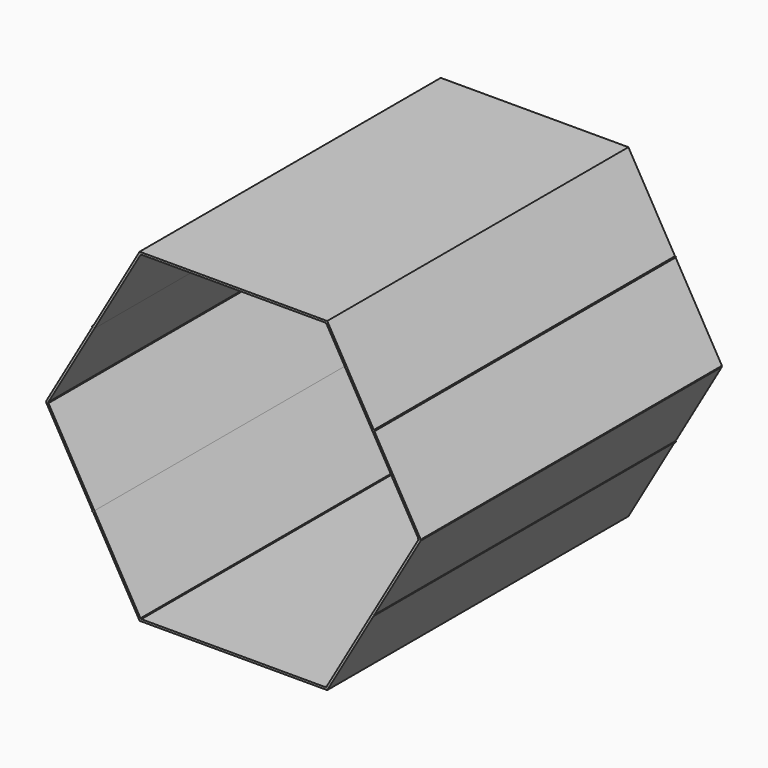
from build123d import *

# Parameters (mm, degrees)
F1_DEPTH = 2032
F2_DEPTH = 2032
F3_DEPTH = 2032


with BuildPart() as f1:
    # F0 (on Front) → F1 (new body)
    with BuildSketch(Plane.XZ):
        with BuildLine():
            Line((496.825, -866.0254037844), (-496.825, -866.0254037844))
            ThreePointArc((-496.825, -866.0254037844), (-498.4125, -868.7750344415), (-501.5875, -868.7750344415))
            Line((-501.5875, -868.7750344415), (-506.4158048664, -877.1379037844))
            Line((-506.4158048664, -877.1379037844), (506.4158048664, -877.1379037844))
            Line((506.4158048664, -877.1379037844), (501.5875, -868.7750344415))
            ThreePointArc((501.5875, -868.7750344415), (498.4125, -868.7750344415), (496.825, -866.0254037844))
        make_face()
    extrude(amount=F1_DEPTH)


with BuildPart() as f1b:
    # F0 (on Front) → F1, piece 2 (new body)
    with BuildSketch(Plane.XZ):
        with BuildLine():
            Line((998.4125, -2.749630657), (750, -433.0127018922))
            Line((750, -433.0127018922), (756.8740766425, -436.9814518922))
            ThreePointArc((756.8740766425, -436.9814518922), (758.8019568314, -435.5021373938), (761.2112072996, -435.8193212352))
            Line((761.2112072996, -435.8193212352), (1011.2441097327, -2.749630657))
            ThreePointArc((1011.2441097327, -2.749630657), (1010.0819790757, -1.5875), (1009.6566097327, 0))
            Line((1009.6566097327, 0), (1003.175, 0))
            ThreePointArc((1003.175, 0), (1001.5875, -2.749630657), (998.4125, -2.749630657))
        make_face()
    extrude(amount=F1_DEPTH)


with BuildPart() as f1c:
    # F0 (on Front) → F1, piece 3 (new body)
    with BuildSketch(Plane.XZ):
        with BuildLine():
            Line((501.5875, 863.2757731274), (750, 433.0127018922))
            Line((750, 433.0127018922), (756.8740766425, 436.9814518922))
            ThreePointArc((756.8740766425, 436.9814518922), (756.5568928011, 439.3907023604), (758.0362072996, 441.3185825492))
            Line((758.0362072996, 441.3185825492), (506.4158048664, 877.1379037844))
            Line((506.4158048664, 877.1379037844), (501.5875, 868.7750344415))
            ThreePointArc((501.5875, 868.7750344415), (502.749630657, 867.6129037844), (503.175, 866.0254037844))
            ThreePointArc((503.175, 866.0254037844), (502.749630657, 864.4379037844), (501.5875, 863.2757731274))
        make_face()
    extrude(amount=F1_DEPTH)


with BuildPart() as f1d:
    # F0 (on Front) → F1, piece 4 (new body)
    with BuildSketch(Plane.XZ):
        with BuildLine():
            Line((-756.8740766425, -436.9814518922), (-750, -433.0127018922))
            Line((-750, -433.0127018922), (-998.4125, -2.749630657))
            ThreePointArc((-998.4125, -2.749630657), (-1001.5875, -2.749630657), (-1003.175, 0))
            Line((-1003.175, 0), (-1009.6566097327, 0))
            ThreePointArc((-1009.6566097327, 0), (-1010.0819790757, -1.5875), (-1011.2441097327, -2.749630657))
            Line((-1011.2441097327, -2.749630657), (-761.2112072996, -435.8193212352))
            ThreePointArc((-761.2112072996, -435.8193212352), (-758.8019568314, -435.5021373938), (-756.8740766425, -436.9814518922))
        make_face()
    extrude(amount=F1_DEPTH)


with BuildPart() as f1e:
    # F0 (on Front) → F1, piece 5 (new body)
    with BuildSketch(Plane.XZ):
        with BuildLine():
            Line((-756.8740766425, 436.9814518922), (-750, 433.0127018922))
            Line((-750, 433.0127018922), (-501.5875, 863.2757731274))
            ThreePointArc((-501.5875, 863.2757731274), (-503.175, 866.0254037844), (-501.5875, 868.7750344415))
            Line((-501.5875, 868.7750344415), (-506.4158048664, 877.1379037844))
            Line((-506.4158048664, 877.1379037844), (-758.0362072996, 441.3185825492))
            ThreePointArc((-758.0362072996, 441.3185825492), (-756.8740766425, 440.1564518922), (-756.4487072996, 438.5689518922))
            ThreePointArc((-756.4487072996, 438.5689518922), (-756.5568928011, 437.747201424), (-756.8740766425, 436.9814518922))
        make_face()
    extrude(amount=F1_DEPTH)


with BuildPart() as f2:
    # F0 (on Front) → F2 (new body)
    with BuildSketch(Plane.XZ):
        with BuildLine():
            Line((750, 433.0127018922), (998.4125, 2.749630657))
            ThreePointArc((998.4125, 2.749630657), (1001.5875, 2.749630657), (1003.175, 0))
            Line((1003.175, 0), (1009.6566097327, 0))
            ThreePointArc((1009.6566097327, 0), (1010.0819790757, 1.5875), (1011.2441097327, 2.749630657))
            Line((1011.2441097327, 2.749630657), (761.2112072996, 435.8193212352))
            ThreePointArc((761.2112072996, 435.8193212352), (758.8019568314, 435.5021373938), (756.8740766425, 436.9814518922))
            Line((756.8740766425, 436.9814518922), (750, 433.0127018922))
        make_face()
    extrude(amount=F2_DEPTH)


with BuildPart() as f2b:
    # F0 (on Front) → F2, piece 2 (new body)
    with BuildSketch(Plane.XZ):
        with BuildLine():
            Line((-496.825, 866.0254037844), (496.825, 866.0254037844))
            ThreePointArc((496.825, 866.0254037844), (498.4125, 868.7750344415), (501.5875, 868.7750344415))
            Line((501.5875, 868.7750344415), (506.4158048664, 877.1379037844))
            Line((506.4158048664, 877.1379037844), (-506.4158048664, 877.1379037844))
            Line((-506.4158048664, 877.1379037844), (-501.5875, 868.7750344415))
            ThreePointArc((-501.5875, 868.7750344415), (-498.4125, 868.7750344415), (-496.825, 866.0254037844))
        make_face()
    extrude(amount=F2_DEPTH)


with BuildPart() as f2c:
    # F0 (on Front) → F2, piece 3 (new body)
    with BuildSketch(Plane.XZ):
        with BuildLine():
            Line((-1009.6566097327, 0), (-1003.175, 0))
            ThreePointArc((-1003.175, 0), (-1001.5875, 2.749630657), (-998.4125, 2.749630657))
            Line((-998.4125, 2.749630657), (-750, 433.0127018922))
            Line((-750, 433.0127018922), (-756.8740766425, 436.9814518922))
            ThreePointArc((-756.8740766425, 436.9814518922), (-758.8019568314, 435.5021373938), (-761.2112072996, 435.8193212352))
            Line((-761.2112072996, 435.8193212352), (-1011.2441097327, 2.749630657))
            ThreePointArc((-1011.2441097327, 2.749630657), (-1010.0819790757, 1.5875), (-1009.6566097327, 0))
        make_face()
    extrude(amount=F2_DEPTH)


with BuildPart() as f2d:
    # F0 (on Front) → F2, piece 4 (new body)
    with BuildSketch(Plane.XZ):
        with BuildLine():
            ThreePointArc((-501.5875, -868.7750344415), (-503.175, -866.0254037844), (-501.5875, -863.2757731274))
            Line((-501.5875, -863.2757731274), (-750, -433.0127018922))
            Line((-750, -433.0127018922), (-756.8740766425, -436.9814518922))
            ThreePointArc((-756.8740766425, -436.9814518922), (-756.5568928011, -437.747201424), (-756.4487072996, -438.5689518922))
            ThreePointArc((-756.4487072996, -438.5689518922), (-756.8740766425, -440.1564518922), (-758.0362072996, -441.3185825492))
            Line((-758.0362072996, -441.3185825492), (-506.4158048664, -877.1379037844))
            Line((-506.4158048664, -877.1379037844), (-501.5875, -868.7750344415))
        make_face()
    extrude(amount=F2_DEPTH)


with BuildPart() as f2e:
    # F0 (on Front) → F2, piece 5 (new body)
    with BuildSketch(Plane.XZ):
        with BuildLine():
            Line((750, -433.0127018922), (501.5875, -863.2757731274))
            ThreePointArc((501.5875, -863.2757731274), (502.749630657, -864.4379037844), (503.175, -866.0254037844))
            ThreePointArc((503.175, -866.0254037844), (502.749630657, -867.6129037844), (501.5875, -868.7750344415))
            Line((501.5875, -868.7750344415), (506.4158048664, -877.1379037844))
            Line((506.4158048664, -877.1379037844), (758.0362072996, -441.3185825492))
            ThreePointArc((758.0362072996, -441.3185825492), (756.5568928011, -439.3907023604), (756.8740766425, -436.9814518922))
            Line((756.8740766425, -436.9814518922), (750, -433.0127018922))
        make_face()
    extrude(amount=F2_DEPTH)


with BuildPart() as f3:
    # F0 (on Front) → F3 (new body)
    with BuildSketch(Plane.XZ):
        with BuildLine():
            ThreePointArc((-761.2112072996, -435.8193212352), (-762.3733379566, -440.1564518922), (-758.0362072996, -441.3185825492))
            Line((-758.0362072996, -441.3185825492), (-759.6237072996, -438.5689518922))
            Line((-759.6237072996, -438.5689518922), (-761.2112072996, -435.8193212352))
        make_face()
        with BuildLine():
            Line((-759.6237072996, -438.5689518922), (-756.8740766425, -436.9814518922))
            ThreePointArc((-756.8740766425, -436.9814518922), (-758.8019568314, -435.5021373938), (-761.2112072996, -435.8193212352))
            Line((-761.2112072996, -435.8193212352), (-759.6237072996, -438.5689518922))
        make_face()
        with BuildLine():
            ThreePointArc((-756.4487072996, -438.5689518922), (-756.5568928011, -437.747201424), (-756.8740766425, -436.9814518922))
            Line((-756.8740766425, -436.9814518922), (-759.6237072996, -438.5689518922))
            Line((-759.6237072996, -438.5689518922), (-758.0362072996, -441.3185825492))
            ThreePointArc((-758.0362072996, -441.3185825492), (-756.8740766425, -440.1564518922), (-756.4487072996, -438.5689518922))
        make_face()
    extrude(amount=F3_DEPTH)


with BuildPart() as f3b:
    # F0 (on Front) → F3, piece 2 (new body)
    with BuildSketch(Plane.XZ):
        with BuildLine():
            Line((-500, -866.0254037844), (-496.825, -866.0254037844))
            ThreePointArc((-496.825, -866.0254037844), (-498.4125, -863.2757731274), (-501.5875, -863.2757731274))
            Line((-501.5875, -863.2757731274), (-500, -866.0254037844))
        make_face()
        with BuildLine():
            ThreePointArc((-501.5875, -868.7750344415), (-498.4125, -868.7750344415), (-496.825, -866.0254037844))
            Line((-496.825, -866.0254037844), (-500, -866.0254037844))
            Line((-500, -866.0254037844), (-501.5875, -868.7750344415))
        make_face()
        with BuildLine():
            Line((-501.5875, -868.7750344415), (-500, -866.0254037844))
            Line((-500, -866.0254037844), (-501.5875, -863.2757731274))
            ThreePointArc((-501.5875, -863.2757731274), (-503.175, -866.0254037844), (-501.5875, -868.7750344415))
        make_face()
    extrude(amount=F3_DEPTH)


with BuildPart() as f3c:
    # F0 (on Front) → F3, piece 3 (new body)
    with BuildSketch(Plane.XZ):
        with BuildLine():
            Line((501.5875, -863.2757731274), (500, -866.0254037844))
            Line((500, -866.0254037844), (501.5875, -868.7750344415))
            ThreePointArc((501.5875, -868.7750344415), (502.749630657, -867.6129037844), (503.175, -866.0254037844))
            ThreePointArc((503.175, -866.0254037844), (502.749630657, -864.4379037844), (501.5875, -863.2757731274))
        make_face()
        with BuildLine():
            ThreePointArc((501.5875, -863.2757731274), (498.4125, -863.2757731274), (496.825, -866.0254037844))
            Line((496.825, -866.0254037844), (500, -866.0254037844))
            Line((500, -866.0254037844), (501.5875, -863.2757731274))
        make_face()
        with BuildLine():
            Line((500, -866.0254037844), (496.825, -866.0254037844))
            ThreePointArc((496.825, -866.0254037844), (498.4125, -868.7750344415), (501.5875, -868.7750344415))
            Line((501.5875, -868.7750344415), (500, -866.0254037844))
        make_face()
    extrude(amount=F3_DEPTH)


with BuildPart() as f3d:
    # F0 (on Front) → F3, piece 4 (new body)
    with BuildSketch(Plane.XZ):
        with BuildLine():
            ThreePointArc((761.2112072996, -435.8193212352), (758.8019568314, -435.5021373938), (756.8740766425, -436.9814518922))
            Line((756.8740766425, -436.9814518922), (759.6237072996, -438.5689518922))
            Line((759.6237072996, -438.5689518922), (761.2112072996, -435.8193212352))
        make_face()
        with BuildLine():
            Line((759.6237072996, -438.5689518922), (756.8740766425, -436.9814518922))
            ThreePointArc((756.8740766425, -436.9814518922), (756.5568928011, -439.3907023604), (758.0362072996, -441.3185825492))
            Line((758.0362072996, -441.3185825492), (759.6237072996, -438.5689518922))
        make_face()
        with BuildLine():
            Line((759.6237072996, -438.5689518922), (758.0362072996, -441.3185825492))
            ThreePointArc((758.0362072996, -441.3185825492), (761.2112072996, -441.3185825492), (762.7987072996, -438.5689518922))
            ThreePointArc((762.7987072996, -438.5689518922), (762.3733379566, -436.9814518922), (761.2112072996, -435.8193212352))
            Line((761.2112072996, -435.8193212352), (759.6237072996, -438.5689518922))
        make_face()
    extrude(amount=F3_DEPTH)


with BuildPart() as f3e:
    # F0 (on Front) → F3, piece 5 (new body)
    with BuildSketch(Plane.XZ):
        with BuildLine():
            Line((998.4125, 2.749630657), (1000, 0))
            Line((1000, 0), (1003.175, 0))
            ThreePointArc((1003.175, 0), (1001.5875, 2.749630657), (998.4125, 2.749630657))
        make_face()
        with BuildLine():
            Line((1000, 0), (998.4125, -2.749630657))
            ThreePointArc((998.4125, -2.749630657), (1001.5875, -2.749630657), (1003.175, 0))
            Line((1003.175, 0), (1000, 0))
        make_face()
        with BuildLine():
            ThreePointArc((998.4125, 2.749630657), (996.825, 0), (998.4125, -2.749630657))
            Line((998.4125, -2.749630657), (1000, 0))
            Line((1000, 0), (998.4125, 2.749630657))
        make_face()
    extrude(amount=F3_DEPTH)


with BuildPart() as f3f:
    # F0 (on Front) → F3, piece 6 (new body)
    with BuildSketch(Plane.XZ):
        with BuildLine():
            Line((758.0362072996, 441.3185825492), (759.6237072996, 438.5689518922))
            Line((759.6237072996, 438.5689518922), (761.2112072996, 435.8193212352))
            ThreePointArc((761.2112072996, 435.8193212352), (762.3733379566, 436.9814518922), (762.7987072996, 438.5689518922))
            ThreePointArc((762.7987072996, 438.5689518922), (761.2112072996, 441.3185825492), (758.0362072996, 441.3185825492))
        make_face()
        with BuildLine():
            Line((759.6237072996, 438.5689518922), (756.8740766425, 436.9814518922))
            ThreePointArc((756.8740766425, 436.9814518922), (758.8019568314, 435.5021373938), (761.2112072996, 435.8193212352))
            Line((761.2112072996, 435.8193212352), (759.6237072996, 438.5689518922))
        make_face()
        with BuildLine():
            ThreePointArc((758.0362072996, 441.3185825492), (756.5568928011, 439.3907023604), (756.8740766425, 436.9814518922))
            Line((756.8740766425, 436.9814518922), (759.6237072996, 438.5689518922))
            Line((759.6237072996, 438.5689518922), (758.0362072996, 441.3185825492))
        make_face()
    extrude(amount=F3_DEPTH)


with BuildPart() as f3g:
    # F0 (on Front) → F3, piece 7 (new body)
    with BuildSketch(Plane.XZ):
        with BuildLine():
            Line((496.825, 866.0254037844), (500, 866.0254037844))
            Line((500, 866.0254037844), (501.5875, 868.7750344415))
            ThreePointArc((501.5875, 868.7750344415), (498.4125, 868.7750344415), (496.825, 866.0254037844))
        make_face()
        with BuildLine():
            ThreePointArc((496.825, 866.0254037844), (498.4125, 863.2757731274), (501.5875, 863.2757731274))
            Line((501.5875, 863.2757731274), (500, 866.0254037844))
            Line((500, 866.0254037844), (496.825, 866.0254037844))
        make_face()
        with BuildLine():
            Line((500, 866.0254037844), (501.5875, 863.2757731274))
            ThreePointArc((501.5875, 863.2757731274), (502.749630657, 864.4379037844), (503.175, 866.0254037844))
            ThreePointArc((503.175, 866.0254037844), (502.749630657, 867.6129037844), (501.5875, 868.7750344415))
            Line((501.5875, 868.7750344415), (500, 866.0254037844))
        make_face()
    extrude(amount=F3_DEPTH)


with BuildPart() as f3h:
    # F0 (on Front) → F3, piece 8 (new body)
    with BuildSketch(Plane.XZ):
        with BuildLine():
            Line((-500, 866.0254037844), (-501.5875, 863.2757731274))
            ThreePointArc((-501.5875, 863.2757731274), (-498.4125, 863.2757731274), (-496.825, 866.0254037844))
            Line((-496.825, 866.0254037844), (-500, 866.0254037844))
        make_face()
        with BuildLine():
            Line((-501.5875, 868.7750344415), (-500, 866.0254037844))
            Line((-500, 866.0254037844), (-496.825, 866.0254037844))
            ThreePointArc((-496.825, 866.0254037844), (-498.4125, 868.7750344415), (-501.5875, 868.7750344415))
        make_face()
        with BuildLine():
            ThreePointArc((-501.5875, 868.7750344415), (-503.175, 866.0254037844), (-501.5875, 863.2757731274))
            Line((-501.5875, 863.2757731274), (-500, 866.0254037844))
            Line((-500, 866.0254037844), (-501.5875, 868.7750344415))
        make_face()
    extrude(amount=F3_DEPTH)


with BuildPart() as f3i:
    # F0 (on Front) → F3, piece 9 (new body)
    with BuildSketch(Plane.XZ):
        with BuildLine():
            Line((-759.6237072996, 438.5689518922), (-756.8740766425, 436.9814518922))
            ThreePointArc((-756.8740766425, 436.9814518922), (-756.5568928011, 437.747201424), (-756.4487072996, 438.5689518922))
            ThreePointArc((-756.4487072996, 438.5689518922), (-756.8740766425, 440.1564518922), (-758.0362072996, 441.3185825492))
            Line((-758.0362072996, 441.3185825492), (-759.6237072996, 438.5689518922))
        make_face()
        with BuildLine():
            ThreePointArc((-758.0362072996, 441.3185825492), (-762.3733379566, 440.1564518922), (-761.2112072996, 435.8193212352))
            Line((-761.2112072996, 435.8193212352), (-759.6237072996, 438.5689518922))
            Line((-759.6237072996, 438.5689518922), (-758.0362072996, 441.3185825492))
        make_face()
        with BuildLine():
            ThreePointArc((-761.2112072996, 435.8193212352), (-758.8019568314, 435.5021373938), (-756.8740766425, 436.9814518922))
            Line((-756.8740766425, 436.9814518922), (-759.6237072996, 438.5689518922))
            Line((-759.6237072996, 438.5689518922), (-761.2112072996, 435.8193212352))
        make_face()
    extrude(amount=F3_DEPTH)


with BuildPart() as f3j:
    # F0 (on Front) → F3, piece 10 (new body)
    with BuildSketch(Plane.XZ):
        with BuildLine():
            Line((-1000, 0), (-998.4125, -2.749630657))
            ThreePointArc((-998.4125, -2.749630657), (-997.250369343, -1.5875), (-996.825, 0))
            ThreePointArc((-996.825, 0), (-997.250369343, 1.5875), (-998.4125, 2.749630657))
            Line((-998.4125, 2.749630657), (-1000, 0))
        make_face()
        with BuildLine():
            Line((-1003.175, 0), (-1000, 0))
            Line((-1000, 0), (-998.4125, 2.749630657))
            ThreePointArc((-998.4125, 2.749630657), (-1001.5875, 2.749630657), (-1003.175, 0))
        make_face()
        with BuildLine():
            ThreePointArc((-1003.175, 0), (-1001.5875, -2.749630657), (-998.4125, -2.749630657))
            Line((-998.4125, -2.749630657), (-1000, 0))
            Line((-1000, 0), (-1003.175, 0))
        make_face()
    extrude(amount=F3_DEPTH)


solid = Compound([f1.part, f1b.part, f1c.part, f1d.part, f1e.part, f2.part, f2b.part, f2c.part, f2d.part, f2e.part, f3.part, f3b.part, f3c.part, f3d.part, f3e.part, f3f.part, f3g.part, f3h.part, f3i.part, f3j.part])
